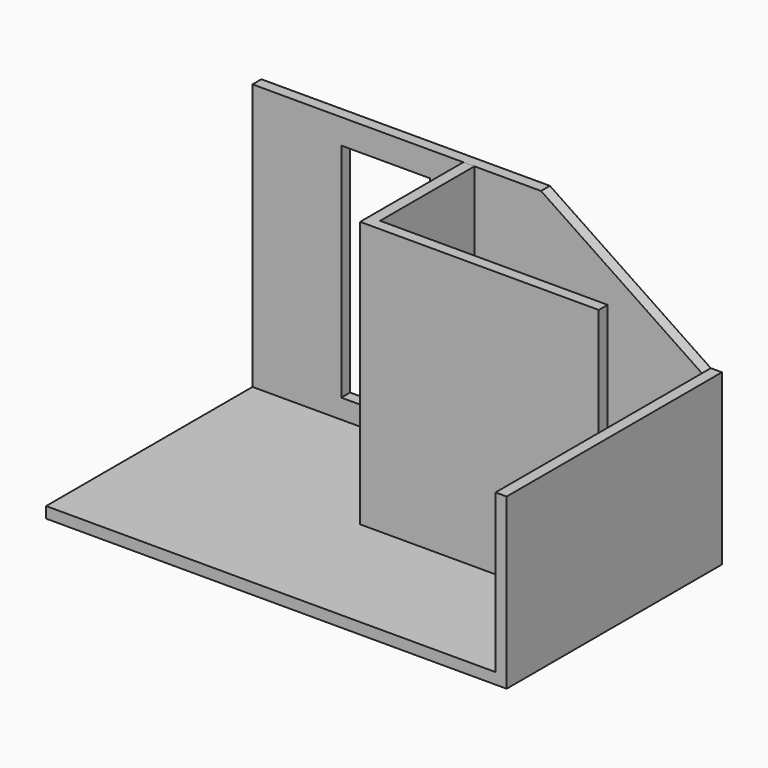
from build123d import *

# Parameters (mm, degrees)
F1_DEPTH  = 2438.4
F2_W      = 812.8
F2_H      = 2032
F3_DEPTH  = 101.601
F4_W      = 2463.8
F4_H      = 990.6
F5_DEPTH  = 101.6
F6_W      = 4216.4
F6_H      = 101.6
F7_DEPTH  = 2463.8
F8_W      = 76.2
F8_H      = 101.6
F9_DEPTH  = 6.35
F10_R     = 2.54
F12_DEPTH = 914.4
F15_DEPTH = 2438.4


with BuildPart() as f1:
    # F0 (on Top) → F1 (new body)
    with BuildSketch(Plane.XY):
        Polygon((-4114.8, 0), (0, 0), (0, -2362.2), (101.6, -2362.2), (101.6, 101.6), (-4114.8, 101.6), align=None)
    extrude(amount=F1_DEPTH)

    # F2 (on face) → F3 (cut, through all)
    with BuildSketch(Plane.XZ):
        with Locations((-2895.6, 1193.8)):
            Rectangle(F2_W, F2_H)
        Polygon((-1473.2, 2438.4), (0, 1447.8), (0, 2438.4), align=None)
    extrude(amount=-F3_DEPTH, mode=Mode.SUBTRACT)

    # F4 (on face) → F5 (cut)
    with BuildSketch(Plane.YZ.offset(101.6)):
        with Locations((-1130.3, 1943.1)):
            Rectangle(F4_W, F4_H)
    extrude(amount=-F5_DEPTH, mode=Mode.SUBTRACT)

    # F6 (on face) → F7 (join)
    with BuildSketch(Plane(origin=(0, 101.6, 0), x_dir=(-1, 0, 0), z_dir=(0, 1, 0))):
        with Locations((2006.6, -50.8)):
            Rectangle(F6_W, F6_H)
    extrude(amount=-F7_DEPTH)

    # F8 (on face) → F9 (join)
    with BuildSketch(Plane.XZ):
        with Locations((-2349.5, 1244.6)):
            Rectangle(F8_W, F8_H)
    extrude(amount=F9_DEPTH)

    # F10
    f10_edges = [f1.edges().sort_by_distance(p)[0] for p in [
        (-2349.5, -6.35, 1295.4),
        (-2387.6, -6.35, 1244.6),
        (-2349.5, -6.35, 1193.8),
        (-2311.4, -6.35, 1244.6),
    ]]
    fillet(f10_edges, radius=F10_R)


with BuildPart() as f12:
    # F11 (on face) → F12 (new body)
    with BuildSketch(Plane.XZ):
        Polygon((-2209.8, 0), (0, 0), (0, 1447.8), (-1473.2, 2438.4), (-2209.8, 2438.4), align=None)
    extrude(amount=F12_DEPTH)


with BuildPart() as f15:
    # F14 (on face) → F15 (new body)
    with BuildSketch(Plane.XY):
        Polygon((-2184.4, -1181.1), (0, -1181.1), (0, -1079.5), (-2082.8, -1079.5), (-2082.8, 0), (-2184.4, 0), align=None)
    extrude(amount=F15_DEPTH)


solid = Compound([f1.part, f15.part])
